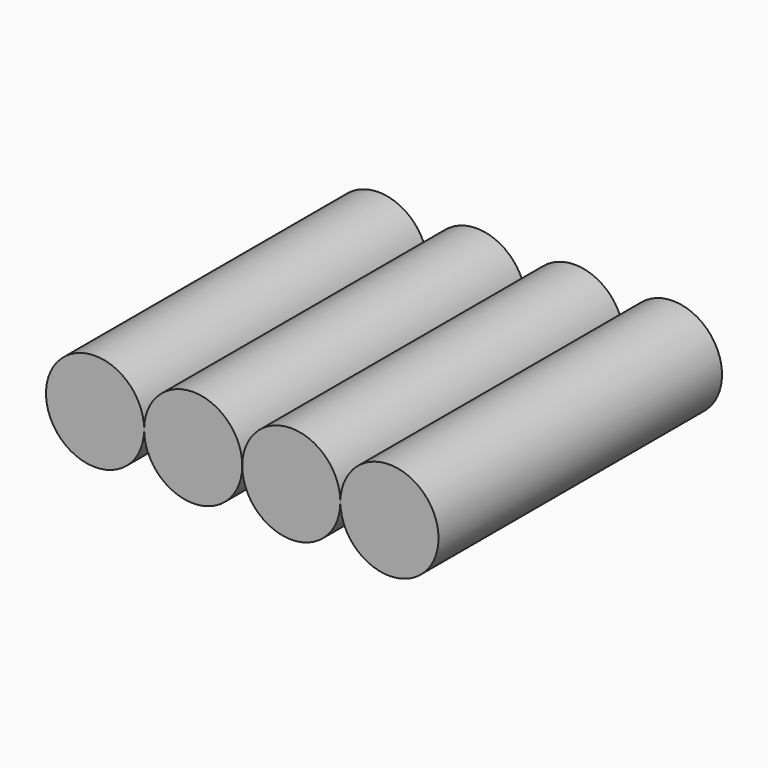
from build123d import *

# Parameters (mm, degrees)
F0_R     = 9
F1_DEPTH = 65


with BuildPart() as f1:
    # F0 (on Front) → F1 (new body)
    with BuildSketch(Plane.XZ):
        with Locations((-42.157453, 0)):
            Circle(F0_R)
        with BuildLine():
            ThreePointArc((-15.157453, 0), (-24.157453, 9), (-33.157453, 0))
            ThreePointArc((-33.157453, 0), (-24.157453, -9), (-15.157453, 0))
        make_face()
        with BuildLine():
            ThreePointArc((2.842547, 0), (-6.157453, 9), (-15.157453, 0))
            ThreePointArc((-15.157453, 0), (-6.157453, -9), (2.842547, 0))
        make_face()
        with BuildLine():
            ThreePointArc((20.842547, 0), (11.842547, 9), (2.842547, 0))
            ThreePointArc((2.842547, 0), (11.842547, -9), (20.842547, 0))
        make_face()
    extrude(amount=F1_DEPTH)


solid = f1.part
